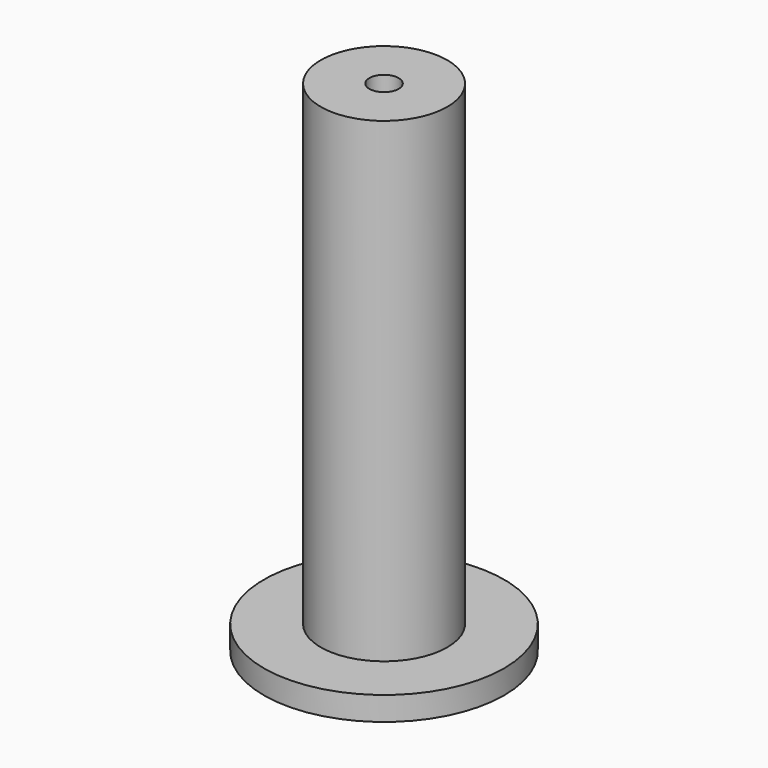
from build123d import *

# Parameters (mm, degrees)
SKETCH001_R  = 7.98
PAD001_DEPTH = 60
SKETCH002_R  = 1.85
POCKET_DEPTH = 10
SKETCH_R     = 15.152226
PAD_DEPTH    = 3


with BuildPart() as part:
    # Sketch001 → Pad001 (new body)
    with BuildSketch(Plane.XY.offset(2)):
        Circle(SKETCH001_R)
    extrude(amount=PAD001_DEPTH)

    # Sketch002 → Pocket (cut)
    with BuildSketch(Plane.XY.offset(62)):
        Circle(SKETCH002_R)
    extrude(amount=-POCKET_DEPTH, mode=Mode.SUBTRACT)

    # Sketch → Pad (new body)
    with BuildSketch(Plane(origin=(0, 0, 2), x_dir=(1, 0, 0), z_dir=(0, 0, -1))):
        Circle(SKETCH_R)
    extrude(amount=PAD_DEPTH)


solid = part.part
